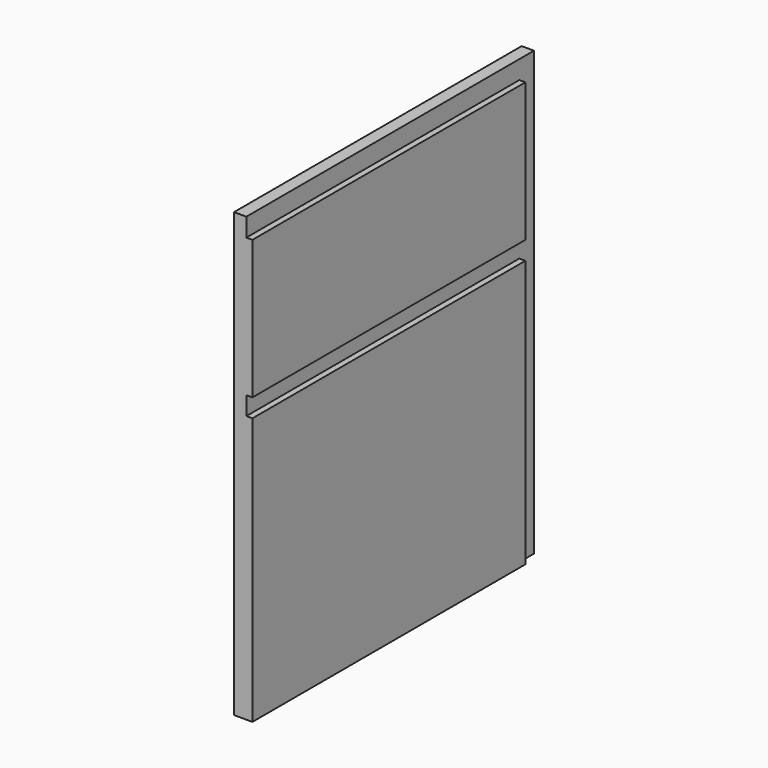
from build123d import *

# Parameters (mm, degrees)
F0_W     = 376.936
F0_H     = 464.185
F1_DEPTH = 19.304
F2_W     = 357.632
F2_H     = 19.304
F2_W_2   = 19.304
F2_H_2   = 145.415
F2_H_3   = 280.162
F3_DEPTH = 6.35


with BuildPart() as f1:
    # F0 (on Right) → F1 (new body)
    with BuildSketch(Plane.YZ):
        Rectangle(F0_W, F0_H)
    extrude(amount=F1_DEPTH)

    # F2 (on face) → F3 (cut)
    with BuildSketch(Plane.YZ.offset(19.304)):
        with Locations((-9.652, 57.7215)):
            Rectangle(F2_W, F2_H)
        with Locations((178.816, 140.081)):
            Rectangle(F2_W_2, F2_H_2)
        with Locations((178.816, 57.7215)):
            Rectangle(F2_W_2, F2_H)
        with Locations((-9.652, 222.4405)):
            Rectangle(F2_W, F2_H)
        with Locations((178.816, 222.4405)):
            Rectangle(F2_W_2, F2_H)
        with Locations((178.816, -92.0115)):
            Rectangle(F2_W_2, F2_H_3)
    extrude(amount=-F3_DEPTH, mode=Mode.SUBTRACT)


solid = f1.part
